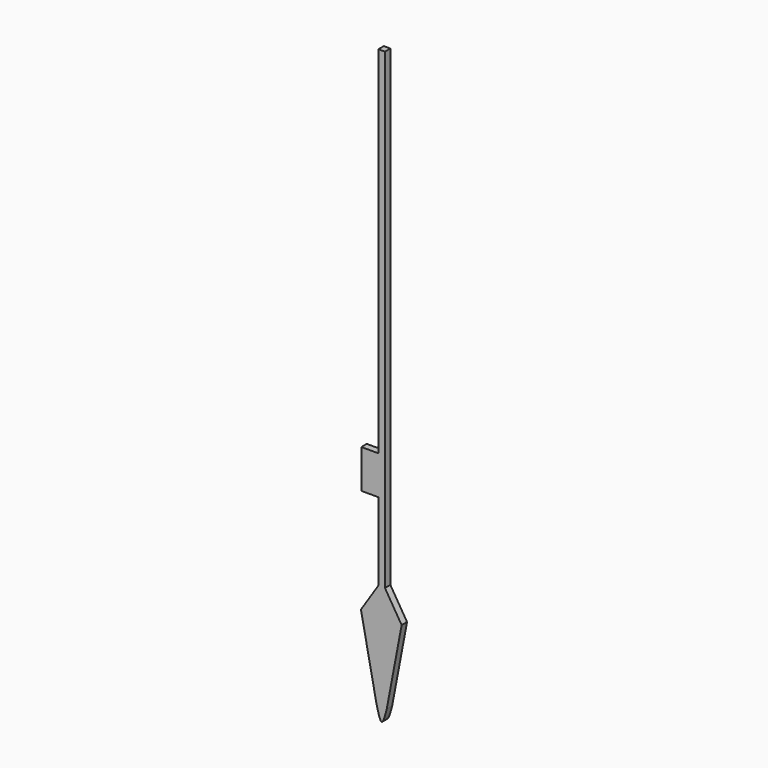
from build123d import *

# Parameters (mm, degrees)
F0_W     = 3.1999936
F0_H     = 7.25000074
F1_DEPTH = 1.27


with BuildPart() as f1:
    # F0 (on Front) → F1 (new body)
    with BuildSketch(Plane.XZ):
        Polygon((-0.065193265, 3.4090982191), (-1.295193345, 3.4090982191), (-1.295193345, -63.3309016509), (-1.295193345, -70.5809023909), (-1.295193345, -85.1709024209), (-0.680193305, -85.1709024209), (-0.065193265, -85.1709024209), align=None)
        with Locations((-2.895190145, -66.9559020209)):
            Rectangle(F0_W, F0_H)
        Polygon((-0.680193305, -104.9110038356), (-0.680193305, -85.1709024209), (-1.295193345, -85.1709024209), (-4.5669513225, -90.2003612126), (-1.6349118244, -104.9110038356), align=None)
        Polygon((3.0674625036, -90.2881598735), (-0.065193265, -85.1709024209), (-0.680193305, -85.1709024209), (-0.680193305, -104.9110038356), (0.2766351171, -105.037851818), align=None)
        with BuildLine():
            Line((0.2766351171, -105.037851818), (-0.680193305, -104.9110038356))
            Line((-0.680193305, -104.9110038356), (-0.680193305, -107.4909024849))
            add(Edge.make_bspline(
                [(-0.680193305, -107.4909024849), (-0.3650057018, -107.493656038), (-0.0441852923, -106.265753928), (0.2766351171, -105.037851818)],
                knots=[0.5054719927, 0.5054719927, 0.5054719927, 0.5054719927, 1, 1, 1, 1], degree=3))
        make_face()
        with BuildLine():
            Line((-0.680193305, -107.4909024849), (-0.680193305, -104.9110038356))
            Line((-0.680193305, -104.9110038356), (-1.6349118244, -104.9110038356))
            add(Edge.make_bspline(
                [(-1.6349118244, -104.9110038356), (-1.3186339428, -106.1995459155), (-1.0023560613, -107.4880879954), (-0.680193305, -107.4909024849)],
                knots=[0, 0, 0, 0, 0.5054719927, 0.5054719927, 0.5054719927, 0.5054719927], degree=3))
        make_face()
    extrude(amount=F1_DEPTH)


solid = f1.part
